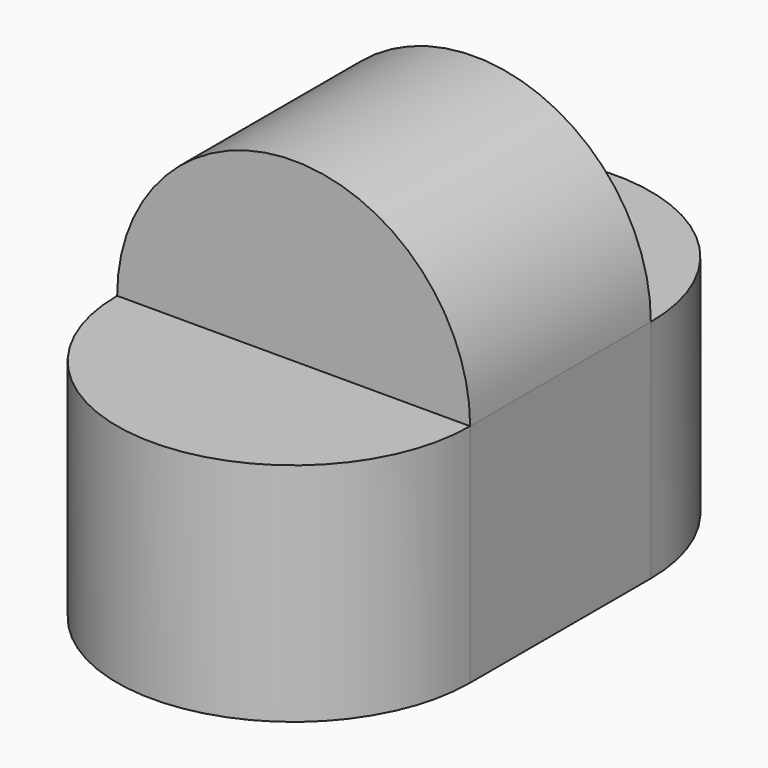
from build123d import *

# Parameters (mm, degrees)
F0_R          = 12.5
F1_DEPTH      = 16
F2_R          = 12.5
F3_DEPTH      = 8
F3_DEPTH_BACK = 8
F5_DEPTH      = 16


with BuildPart() as f1:
    # F0 (on Top) → F1 (new body)
    with BuildSketch(Plane.XY):
        Circle(F0_R)
    extrude(amount=F1_DEPTH)

    # F2 (on Front) → F3 (join, two sides)
    with BuildSketch(Plane.XZ) as f3_sk:
        with Locations((0, 16)):
            Circle(F2_R)
    extrude(amount=F3_DEPTH)
    extrude(f3_sk.sketch, amount=-F3_DEPTH_BACK)

    # F4 (on Top) → F5 (join)
    with BuildSketch(Plane.XY):
        with BuildLine():
            Line((-12.5, 8), (12.5, 8))
            ThreePointArc((12.5, 8), (0, 20.5), (-12.5, 8))
        make_face()
        with BuildLine():
            Line((12.5, -8), (12.5, 8))
            ThreePointArc((12.5, 8), (11.7539052968, 3.7460947032), (9.6046863561, 0))
            ThreePointArc((9.6046863561, 0), (11.7539052968, -3.7460947032), (12.5, -8))
        make_face()
        with BuildLine():
            ThreePointArc((9.6046863561, 0), (11.7539052968, 3.7460947032), (12.5, 8))
            Line((12.5, 8), (-12.5, 8))
            ThreePointArc((-12.5, 8), (-11.7539052968, 3.7460947032), (-9.6046863561, 0))
            ThreePointArc((-9.6046863561, 0), (0, 4.5), (9.6046863561, 0))
        make_face()
        with BuildLine():
            ThreePointArc((-9.6046863561, 0), (-11.7539052968, 3.7460947032), (-12.5, 8))
            Line((-12.5, 8), (-12.5, -8))
            ThreePointArc((-12.5, -8), (-11.7539052968, -3.7460947032), (-9.6046863561, 0))
        make_face()
        with BuildLine():
            ThreePointArc((12.5, -8), (11.7539052968, -3.7460947032), (9.6046863561, 0))
            ThreePointArc((9.6046863561, 0), (0, -4.5), (-9.6046863561, 0))
            ThreePointArc((-9.6046863561, 0), (-11.7539052968, -3.7460947032), (-12.5, -8))
            Line((-12.5, -8), (12.5, -8))
        make_face()
        with BuildLine():
            ThreePointArc((-12.5, -8), (0, -20.5), (12.5, -8))
            Line((12.5, -8), (-12.5, -8))
        make_face()
    extrude(amount=F5_DEPTH)


solid = f1.part
